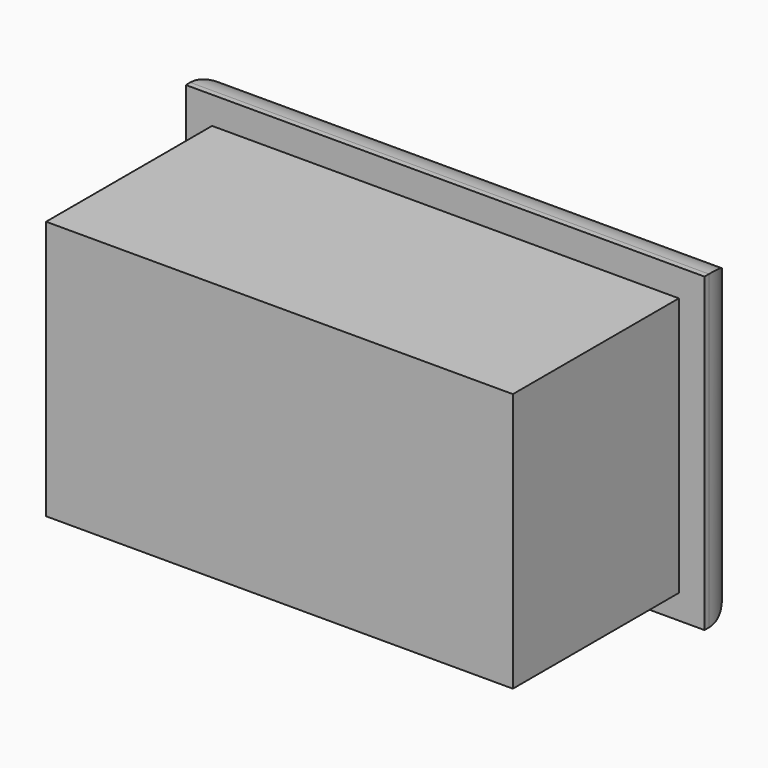
from build123d import *

# Parameters (mm, degrees)
F0_W     = 254
F0_H     = 152.4
F1_DEPTH = 25.4
F2_R     = 22.688779
F3_W     = 228.6
F3_H     = 127
F4_DEPTH = 101.6


with BuildPart() as f1:
    # F0 (on Front) → F1 (new body)
    with BuildSketch(Plane.XZ):
        with Locations((-29.356187, 2.458728)):
            Rectangle(F0_W, F0_H)
    extrude(amount=F1_DEPTH)

    # F2
    f2_edges = [f1.edges().sort_by_distance(p)[0] for p in [
        (-29.356187, 0, 78.658728),
        (-156.356187, 0, 2.458728),
        (-29.356187, 0, -73.741272),
        (97.643813, 0, 2.458728),
    ]]
    fillet(f2_edges, radius=F2_R)

    # F3 (on face) → F4 (join)
    with BuildSketch(Plane.XZ.offset(25.4)):
        with Locations((-29.209957, 1.706252)):
            Rectangle(F3_W, F3_H)
    extrude(amount=F4_DEPTH)


solid = f1.part
